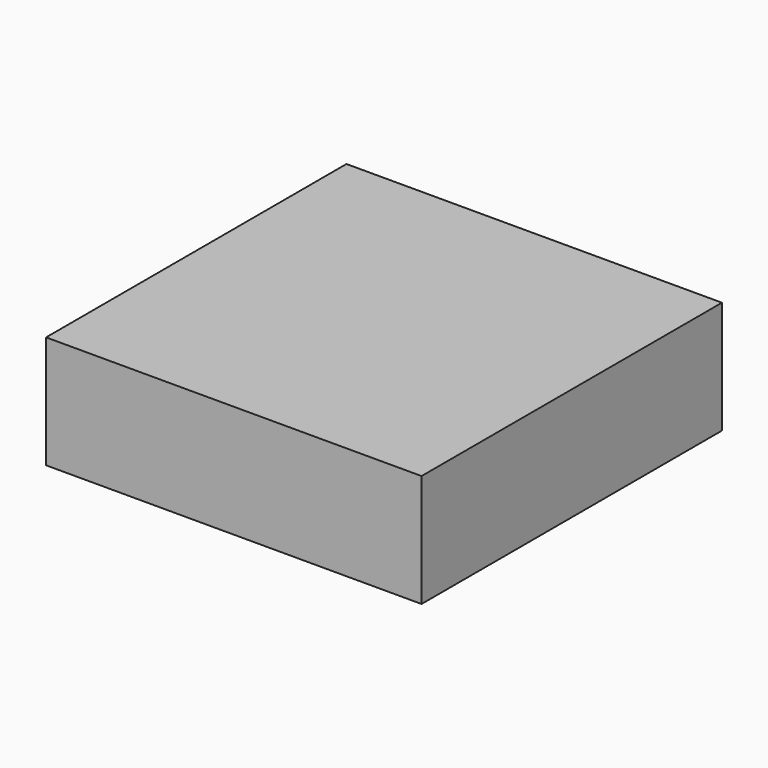
from build123d import *

# Parameters (mm, degrees)
SKETCH_W         = 12
SKETCH_H         = 16
EXTRUDE_DEPTH    = 0.035
SKETCH001_W      = 24
SKETCH001_H      = 32
EXTRUDE001_DEPTH = 1.524
SKETCH003_W      = 24
SKETCH003_H      = 32
EXTRUDE002_DEPTH = 0.035
SKETCH002_W      = 0.2
SKETCH002_H      = 2
EXTRUDE003_DEPTH = 1.6
SKETCH004_W      = 80
SKETCH004_H      = 80
EXTRUDE004_DEPTH = 12


with BuildPart() as antenna:
    # Sketch → Extrude (new body)
    with BuildSketch(Plane.XY):
        Rectangle(SKETCH_W, SKETCH_H)
    extrude(amount=EXTRUDE_DEPTH)


with BuildPart() as substrate:
    # Sketch001 (on Sketch) → Extrude001 (new body)
    with BuildSketch(Plane.XY):
        Rectangle(SKETCH001_W, SKETCH001_H)
    extrude(amount=-EXTRUDE001_DEPTH)


with BuildPart() as gnd:
    # Sketch003 (on Face6 of Extrude001) → Extrude002 (new body)
    with BuildSketch(Plane(origin=(0, 0, -1.524), x_dir=(1, 0, 0), z_dir=(0, 0, -1))):
        Rectangle(SKETCH003_W, SKETCH003_H)
    extrude(amount=EXTRUDE002_DEPTH)


with BuildPart() as excitation:
    # Sketch002 (on Sketch) → Extrude003 (new body)
    with BuildSketch(Plane.XY):
        with Locations((-4.3, 0)):
            Rectangle(SKETCH002_W, SKETCH002_H)
    extrude(amount=-EXTRUDE003_DEPTH)


with BuildPart() as excitation_1:
    # Extrude003 placement: moved
    add(excitation.part.moved(Location((0, 0, 0.035))))


with BuildPart() as air:
    # Sketch004 → Extrude004 (new body, symmetric)
    with BuildSketch(Plane.XY):
        Rectangle(SKETCH004_W, SKETCH004_H)
    extrude(amount=EXTRUDE004_DEPTH, both=True)


solid = Compound([antenna.part, substrate.part, gnd.part, excitation_1.part, air.part])
